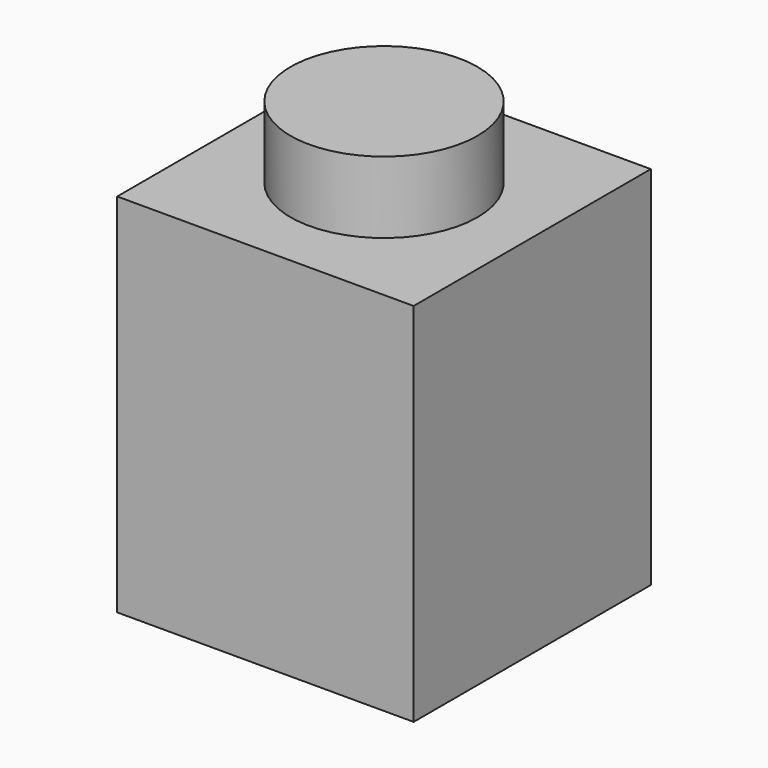
from build123d import *

# Parameters (mm, degrees)
F0_W     = 7.7724
F0_H     = 7.7724
F1_DEPTH = 9.6012
F2_R     = 2.4511
F3_DEPTH = 1.8796
F4_W     = 4.9784
F4_H     = 4.9784
F5_DEPTH = 8.382


with BuildPart() as f1:
    # F0 (on Top) → F1 (new body)
    with BuildSketch(Plane.XY):
        Rectangle(F0_W, F0_H)
    extrude(amount=F1_DEPTH)

    # F2 (on face) → F3 (join)
    with BuildSketch(Plane.XY.offset(9.6012)):
        Circle(F2_R)
    extrude(amount=F3_DEPTH)

    # F4 (on face) → F5 (cut)
    with BuildSketch(Plane(origin=(0, 0, 0), x_dir=(1, 0, 0), z_dir=(0, 0, -1))):
        Rectangle(F4_W, F4_H)
    extrude(amount=-F5_DEPTH, mode=Mode.SUBTRACT)


solid = f1.part
